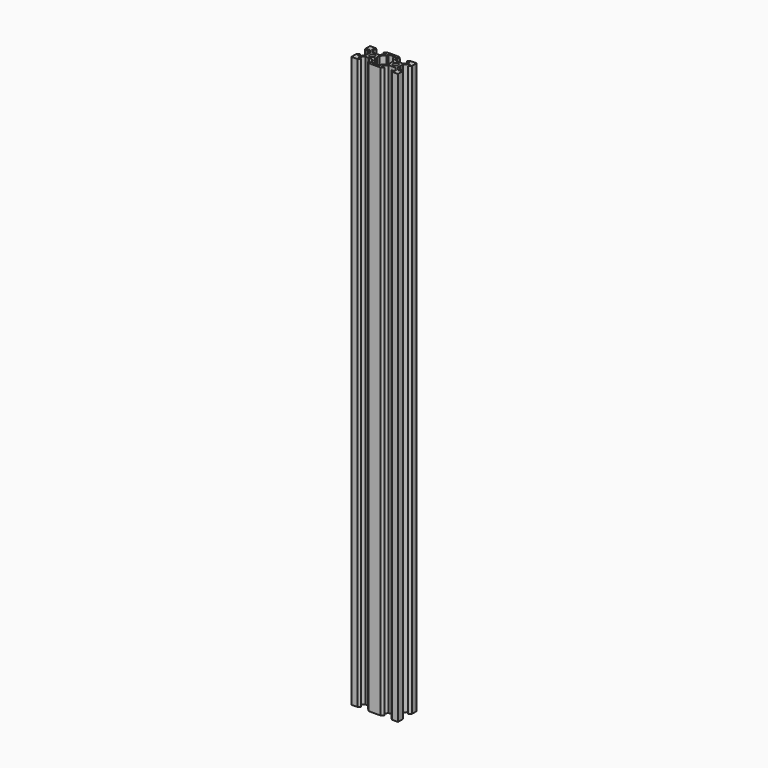
from build123d import *

# Parameters (mm, degrees)
SKETCH003_R         = 2.1
PAD003_DEPTH        = 490
CHAMFER003_1_ANGLE  = 45
CHAMFER003_1_SIZE   = 1.7
CHAMFER003_2_ANGLE  = 45
CHAMFER003_2_SIZE   = 1.7
CHAMFER003_3_ANGLE  = 45
CHAMFER003_3_SIZE   = 1.7
CHAMFER003_4_ANGLE  = 45
CHAMFER003_4_SIZE   = 1.7
CHAMFER003_5_ANGLE  = 45
CHAMFER003_5_SIZE   = 1.7
CHAMFER003_6_ANGLE  = 45
CHAMFER003_6_SIZE   = 1.7
CHAMFER003_7_ANGLE  = 45
CHAMFER003_7_SIZE   = 1.7
CHAMFER003_8_ANGLE  = 45
CHAMFER003_8_SIZE   = 1.7
CHAMFER003_9_ANGLE  = 45
CHAMFER003_9_SIZE   = 1.7
CHAMFER003_10_ANGLE = 45
CHAMFER003_10_SIZE  = 1.7
CHAMFER003_11_ANGLE = 45
CHAMFER003_11_SIZE  = 1.7
CHAMFER003_12_ANGLE = 45
CHAMFER003_12_SIZE  = 1.7
FILLET003_R         = 0.2


with BuildPart() as part:
    # Sketch003 → Pad003 (new body)
    with BuildSketch(Plane.XY):
        Polygon((0, 3.723883), (0.176777, 3.90066), (2.84, 3.90066), (5.49934, 6.56), (5.49934, 8.2), (3.1, 8.2), (3.1, 10), (16.9, 10), (16.9, 8.2), (14.50066, 8.2), (14.50066, 6.56), (17.16, 3.90066), (19.823223, 3.90066), (20, 3.723883), (20.176777, 3.90066), (22.84, 3.90066), (25.49934, 6.56), (25.49934, 8.2), (23.1, 8.2), (23.1, 10), (30, 10), (30, 3.1), (28.2, 3.1), (28.2, 5.49934), (26.56, 5.49934), (23.90066, 2.84), (23.90066, 0.176777), (23.723883, 0), (23.90066, -0.176777), (23.90066, -2.84), (26.56, -5.49934), (28.2, -5.49934), (28.2, -3.1), (30, -3.1), (30, -10), (23.1, -10), (23.1, -8.2), (25.49934, -8.2), (25.49934, -6.56), (22.84, -3.90066), (20.176777, -3.90066), (20, -3.723883), (19.823223, -3.90066), (17.16, -3.90066), (14.50066, -6.56), (14.50066, -8.2), (16.9, -8.2), (16.9, -10), (3.1, -10), (3.1, -8.2), (5.49934, -8.2), (5.49934, -6.56), (2.84, -3.90066), (0.176777, -3.90066), (0, -3.723883), (-0.176777, -3.90066), (-2.84, -3.90066), (-5.49934, -6.56), (-5.49934, -8.2), (-3.1, -8.2), (-3.1, -10), (-10, -10), (-10, -3.1), (-8.2, -3.1), (-8.2, -5.49934), (-6.56, -5.49934), (-3.90066, -2.84), (-3.90066, -0.176777), (-3.723883, 0), (-3.90066, 0.176777), (-3.90066, 2.84), (-6.56, 5.49934), (-8.2, 5.49934), (-8.2, 3.1), (-10, 3.1), (-10, 10), (-3.1, 10), (-3.1, 8.2), (-5.49934, 8.2), (-5.49934, 6.56), (-2.84, 3.90066), (-0.176777, 3.90066), align=None)
        Circle(SKETCH003_R, mode=Mode.SUBTRACT)
        with Locations((20, 0)):
            Circle(SKETCH003_R, mode=Mode.SUBTRACT)
        Polygon((7.29934, 6.23868), (3.90066, 2.84), (3.90066, 0.176777), (3.723883, 0), (3.90066, -0.176777), (3.90066, -2.84), (7.29934, -6.23868), (7.29934, -8.2), (12.70066, -8.2), (12.70066, -6.23868), (16.09934, -2.84), (16.09934, -0.176777), (16.276117, 0), (16.09934, 0.176777), (16.09934, 2.84), (12.70066, 6.23868), (12.70066, 8.2), (7.29934, 8.2), align=None, mode=Mode.SUBTRACT)
    extrude(amount=PAD003_DEPTH)

    # Chamfer003 1
    chamfer003_1_edges = [part.edges().sort_by_distance(p)[0] for p in [
        (3.1, -10, 245),
    ]]
    chamfer003_1_side = part.faces().sort_by_distance((10, -10, 245))[0]
    chamfer(chamfer003_1_edges, length=CHAMFER003_1_SIZE, angle=CHAMFER003_1_ANGLE, reference=chamfer003_1_side)

    # Chamfer003 2
    chamfer003_2_edges = [part.edges().sort_by_distance(p)[0] for p in [
        (16.9, -10, 245),
    ]]
    chamfer003_2_side = part.faces().sort_by_distance((16.9, -9.1, 245))[0]
    chamfer(chamfer003_2_edges, length=CHAMFER003_2_SIZE, angle=CHAMFER003_2_ANGLE, reference=chamfer003_2_side)

    # Chamfer003 3
    chamfer003_3_edges = [part.edges().sort_by_distance(p)[0] for p in [
        (23.1, -10, 245),
    ]]
    chamfer003_3_side = part.faces().sort_by_distance((26.55, -10, 245))[0]
    chamfer(chamfer003_3_edges, length=CHAMFER003_3_SIZE, angle=CHAMFER003_3_ANGLE, reference=chamfer003_3_side)

    # Chamfer003 4
    chamfer003_4_edges = [part.edges().sort_by_distance(p)[0] for p in [
        (-3.1, -10, 245),
    ]]
    chamfer003_4_side = part.faces().sort_by_distance((-3.1, -9.1, 245))[0]
    chamfer(chamfer003_4_edges, length=CHAMFER003_4_SIZE, angle=CHAMFER003_4_ANGLE, reference=chamfer003_4_side)

    # Chamfer003 5
    chamfer003_5_edges = [part.edges().sort_by_distance(p)[0] for p in [
        (30, -3.1, 245),
    ]]
    chamfer003_5_side = part.faces().sort_by_distance((29.1, -3.1, 245))[0]
    chamfer(chamfer003_5_edges, length=CHAMFER003_5_SIZE, angle=CHAMFER003_5_ANGLE, reference=chamfer003_5_side)

    # Chamfer003 6
    chamfer003_6_edges = [part.edges().sort_by_distance(p)[0] for p in [
        (30, 3.1, 245),
    ]]
    chamfer003_6_side = part.faces().sort_by_distance((30, 6.55, 245))[0]
    chamfer(chamfer003_6_edges, length=CHAMFER003_6_SIZE, angle=CHAMFER003_6_ANGLE, reference=chamfer003_6_side)

    # Chamfer003 7
    chamfer003_7_edges = [part.edges().sort_by_distance(p)[0] for p in [
        (23.1, 10, 245),
    ]]
    chamfer003_7_side = part.faces().sort_by_distance((23.1, 9.1, 245))[0]
    chamfer(chamfer003_7_edges, length=CHAMFER003_7_SIZE, angle=CHAMFER003_7_ANGLE, reference=chamfer003_7_side)

    # Chamfer003 8
    chamfer003_8_edges = [part.edges().sort_by_distance(p)[0] for p in [
        (16.9, 10, 245),
    ]]
    chamfer003_8_side = part.faces().sort_by_distance((10, 10, 245))[0]
    chamfer(chamfer003_8_edges, length=CHAMFER003_8_SIZE, angle=CHAMFER003_8_ANGLE, reference=chamfer003_8_side)

    # Chamfer003 9
    chamfer003_9_edges = [part.edges().sort_by_distance(p)[0] for p in [
        (3.1, 10, 245),
    ]]
    chamfer003_9_side = part.faces().sort_by_distance((3.1, 9.1, 245))[0]
    chamfer(chamfer003_9_edges, length=CHAMFER003_9_SIZE, angle=CHAMFER003_9_ANGLE, reference=chamfer003_9_side)

    # Chamfer003 10
    chamfer003_10_edges = [part.edges().sort_by_distance(p)[0] for p in [
        (-3.1, 10, 245),
    ]]
    chamfer003_10_side = part.faces().sort_by_distance((-6.55, 10, 245))[0]
    chamfer(chamfer003_10_edges, length=CHAMFER003_10_SIZE, angle=CHAMFER003_10_ANGLE, reference=chamfer003_10_side)

    # Chamfer003 11
    chamfer003_11_edges = [part.edges().sort_by_distance(p)[0] for p in [
        (-10, -3.1, 245),
    ]]
    chamfer003_11_side = part.faces().sort_by_distance((-10, -6.55, 245))[0]
    chamfer(chamfer003_11_edges, length=CHAMFER003_11_SIZE, angle=CHAMFER003_11_ANGLE, reference=chamfer003_11_side)

    # Chamfer003 12
    chamfer003_12_edges = [part.edges().sort_by_distance(p)[0] for p in [
        (-10, 3.1, 245),
    ]]
    chamfer003_12_side = part.faces().sort_by_distance((-9.1, 3.1, 245))[0]
    chamfer(chamfer003_12_edges, length=CHAMFER003_12_SIZE, angle=CHAMFER003_12_ANGLE, reference=chamfer003_12_side)

    # Fillet003
    fillet003_edges = [part.edges().sort_by_distance(p)[0] for p in [
        (-10, -10, 245),
        (-10, 10, 245),
        (30, 10, 245),
        (30, -10, 245),
    ]]
    fillet(fillet003_edges, radius=FILLET003_R)


solid = part.part
